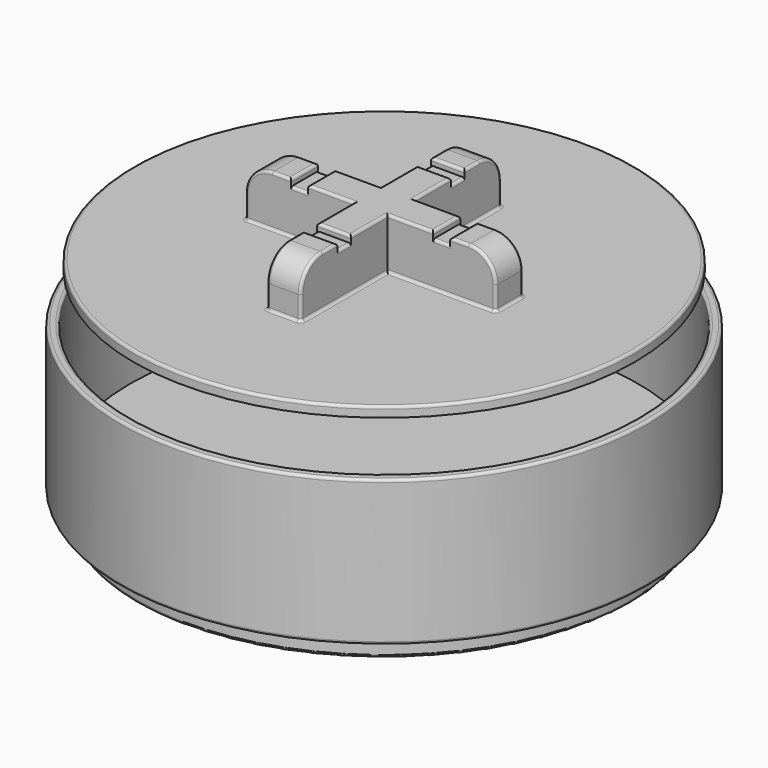
from build123d import *

# Parameters (mm, degrees)
SKETCH_R        = 78
PAD_DEPTH       = 43
SKETCH001_R     = 75
POCKET_DEPTH    = 40
SKETCH002_R     = 73
PAD001_DEPTH    = 6
FILLET003_R     = 0.8
FILLET004_R     = 0.8
SKETCH003_R     = 74
PAD002_DEPTH    = 3
PAD003_DEPTH    = 15
SKETCH005_W     = 5
SKETCH005_H     = 10
SKETCH005_W_2   = 10
SKETCH005_H_2   = 5
POCKET001_DEPTH = 2
FILLET_R        = 8
FILLET001_R     = 0.8
FILLET002_R     = 0.8


with BuildPart() as level:
    # Sketch → Pad (new body)
    with BuildSketch(Plane.XY):
        Circle(SKETCH_R)
    extrude(amount=PAD_DEPTH)

    # Sketch001 (on Face3 of Pad) → Pocket (cut)
    with BuildSketch(Plane.XY.offset(43)):
        Circle(SKETCH001_R)
    extrude(amount=-POCKET_DEPTH, mode=Mode.SUBTRACT)

    # Sketch002 (on Face2 of Pocket) → Pad001 (join)
    with BuildSketch(Plane(origin=(0, 0, 0), x_dir=(1, 0, 0), z_dir=(0, 0, -1))):
        Circle(SKETCH002_R)
    extrude(amount=PAD001_DEPTH)

    # Fillet003
    fillet003_edges = [level.edges().sort_by_distance(p)[0] for p in [
        (-78, 0, 43),
        (-75, 0, 43),
    ]]
    fillet(fillet003_edges, radius=FILLET003_R)

    # Fillet004
    fillet004_edges = [level.edges().sort_by_distance(p)[0] for p in [
        (-78, 0, 0),
        (73, 0, -3),
        (-73, 0, 0),
        (-73, 0, -6),
    ]]
    fillet(fillet004_edges, radius=FILLET004_R)


with BuildPart() as lid:
    # Sketch003 → Pad002 (new body)
    with BuildSketch(Plane.XY):
        Circle(SKETCH003_R)
    extrude(amount=PAD002_DEPTH)

    # Sketch004 (on Face3 of Pad002) → Pad003 (join)
    with BuildSketch(Plane.XY.offset(3)):
        Polygon((-5, 37), (-5, 5), (-37, 5), (-37, -5), (-5, -5), (-5, -37), (5, -37), (5, -5), (37, -5), (37, 5), (5, 5), (5, 37), align=None)
    extrude(amount=PAD003_DEPTH)

    # Sketch005 (on Face16 of Pad003) → Pocket001 (cut)
    with BuildSketch(Plane.XY.offset(18)):
        with Locations((-21, 0)):
            Rectangle(SKETCH005_W, SKETCH005_H)
        with Locations((21, 0)):
            Rectangle(SKETCH005_W, SKETCH005_H)
        with Locations((0, 21)):
            Rectangle(SKETCH005_W_2, SKETCH005_H_2)
        with Locations((0, -21)):
            Rectangle(SKETCH005_W_2, SKETCH005_H_2)
    extrude(amount=-POCKET001_DEPTH, mode=Mode.SUBTRACT)

    # Fillet
    fillet_edges = [lid.edges().sort_by_distance(p)[0] for p in [
        (0, 37, 18),
        (37, 0, 18),
        (0, -37, 18),
        (-37, 0, 18),
    ]]
    fillet(fillet_edges, radius=FILLET_R)

    # Fillet001
    fillet001_edges = [lid.edges().sort_by_distance(p)[0] for p in [
        (11.75, 5, 18),
        (21, 5, 16),
        (26.25, 5, 18),
        (5, 11.75, 18),
        (5, 21, 16),
        (5, 26.25, 18),
        (-5, 11.75, 18),
        (-11.75, 5, 18),
        (-11.75, -5, 18),
        (-5, -11.75, 18),
        (5, -11.75, 18),
        (11.75, -5, 18),
        (21, -5, 16),
        (26.25, -5, 18),
        (5, -21, 16),
        (5, -26.25, 18),
        (-5, -26.25, 18),
        (-5, -21, 16),
        (-21, -5, 16),
        (-26.25, -5, 18),
        (-26.25, 5, 18),
        (-21, 5, 16),
        (-5, 21, 16),
        (-5, 26.25, 18),
        (0, -23.5, 18),
        (0, -18.5, 18),
        (-18.5, 0, 18),
        (-23.5, 0, 18),
        (0, 18.5, 18),
        (0, 23.5, 18),
        (23.5, 0, 18),
        (18.5, 0, 18),
    ]]
    fillet(fillet001_edges, radius=FILLET001_R)

    # Fillet002
    fillet002_edges = [lid.edges().sort_by_distance(p)[0] for p in [
        (5, 20.6, 3),
        (4.765685, 36.765685, 3),
        (20.6, 5, 3),
        (0, 37, 3),
        (36.765685, 4.765685, 3),
        (-4.765685, 36.765685, 3),
        (37, 0, 3),
        (-5, 20.6, 3),
        (36.765685, -4.765685, 3),
        (-20.6, 5, 3),
        (20.6, -5, 3),
        (-36.765685, 4.765685, 3),
        (5, -20.6, 3),
        (-37, 0, 3),
        (4.765685, -36.765685, 3),
        (-36.765685, -4.765685, 3),
        (0, -37, 3),
        (-20.6, -5, 3),
        (-4.765685, -36.765685, 3),
        (-5, -20.6, 3),
        (-74, 0, 3),
    ]]
    fillet(fillet002_edges, radius=FILLET002_R)


with BuildPart() as lid_1:
    # Body001 placement: moved
    add(lid.part.moved(Location((0, 0, 57))))


solid = Compound([level.part, lid_1.part])
